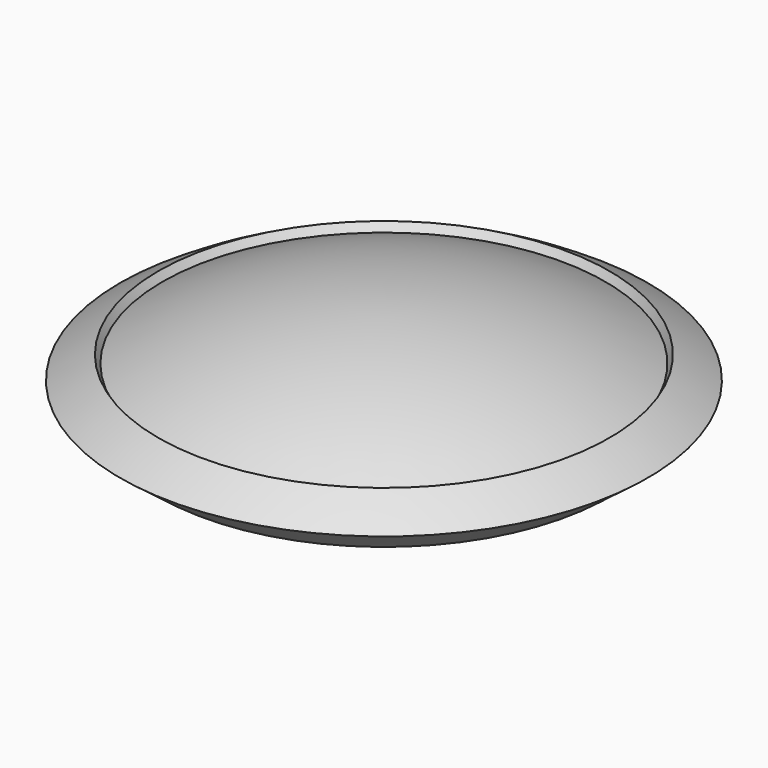
from build123d import *


with BuildPart() as f1:
    # F0 (on Front) → F1 (revolve)
    with BuildSketch(Plane.XZ):
        with BuildLine():
            ThreePointArc((-9.0551787683, 0.5415136559), (-4.6681406487, 2.2381292097), (0, 2.8152519736))
            Line((0, 2.8152519736), (0, 4.4152519736))
            ThreePointArc((0, 4.4152519736), (-5.0578012847, 3.7899554205), (-9.8110357537, 1.9517193918))
            Line((-9.8110357537, 1.9517193918), (-9.0551787683, 0.5415136559))
        make_face()
        with BuildLine():
            ThreePointArc((-10, 0), (-9.5314358169, 0.2774680001), (-9.0551787683, 0.5415136559))
            Line((-9.0551787683, 0.5415136559), (-9.8110357537, 1.9517193918))
            Line((-9.8110357537, 1.9517193918), (-10, 2.3042708258))
            ThreePointArc((-10, 2.3042708258), (-10.8588580618, 1.8178210051), (-11.6941057396, 1.2918629127))
            Line((-11.6941057396, 1.2918629127), (-10, 0))
        make_face()
        with BuildLine():
            Line((0, 0), (0, 2.8152519736))
            ThreePointArc((0, 2.8152519736), (-4.6681406487, 2.2381292097), (-9.0551787683, 0.5415136559))
            ThreePointArc((-9.0551787683, 0.5415136559), (-9.5314358169, 0.2774680001), (-10, 0))
            Line((-10, 0), (0, 0))
        make_face()
    revolve(axis=Axis((0, 0, 2.2076259868), (0, 0, 1)))


solid = f1.part
